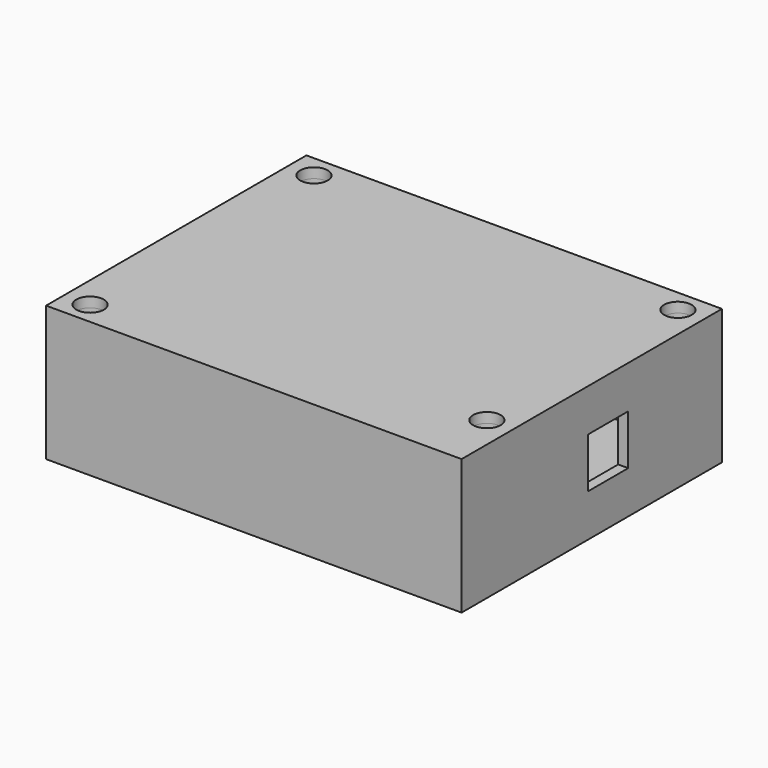
from build123d import *

# Parameters (mm, degrees)
F0_W      = 83
F0_H      = 65
F1_DEPTH  = 2
F2_W      = 83
F2_H      = 65
F2_R      = 2.75
F3_DEPTH  = 23
F4_R      = 2.75
F5_DEPTH  = 2.001
F6_W      = 83
F6_H      = 65
F6_R      = 2.75
F7_DEPTH  = 2
F8_W      = 10
F8_H      = 10
F9_DEPTH  = 2
F10_R     = 3
F11_DEPTH = 2


with BuildPart() as f1:
    # F0 (on Top) → F1 (new body)
    with BuildSketch(Plane.XY):
        Rectangle(F0_W, F0_H)
    extrude(amount=F1_DEPTH)

    # F2 (on face) → F3 (join)
    with BuildSketch(Plane.XY.offset(2)):
        Rectangle(F2_W, F2_H)
        with Locations((-36.35, -27.95)):
            Circle(F2_R, mode=Mode.SUBTRACT)
        with Locations((36.35, -19.75)):
            Circle(F2_R, mode=Mode.SUBTRACT)
        with Locations((-36.35, 27.95)):
            Circle(F2_R, mode=Mode.SUBTRACT)
        with BuildLine():
            Line((39.5, -30.5), (-31.196361, -30.5))
            ThreePointArc((-31.196361, -30.5), (-32.535877, -23.647098), (-39.5, -23.139595))
            Line((-39.5, -23.139595), (-39.5, 23.139595))
            ThreePointArc((-39.5, 23.139595), (-32.535877, 23.647098), (-31.196361, 30.5))
            Line((-31.196361, 30.5), (31.196361, 30.5))
            ThreePointArc((31.196361, 30.5), (32.535877, 23.647098), (39.5, 23.139595))
            Line((39.5, 23.139595), (39.5, -14.939595))
            ThreePointArc((39.5, -14.939595), (30.6, -19.75), (39.5, -24.560405))
            Line((39.5, -24.560405), (39.5, -30.5))
        make_face(mode=Mode.SUBTRACT)
        with Locations((36.35, 27.95)):
            Circle(F2_R, mode=Mode.SUBTRACT)
    extrude(amount=F3_DEPTH)

    # F4 (on face) → F5 (cut, through all)
    with BuildSketch(Plane.XY.offset(2)):
        with Locations((-36.35, 27.95)):
            Circle(F4_R)
        with Locations((-36.35, -27.95)):
            Circle(F4_R)
        with Locations((36.35, 27.95)):
            Circle(F4_R)
        with Locations((36.35, -19.75)):
            Circle(F4_R)
    extrude(amount=-F5_DEPTH, mode=Mode.SUBTRACT)

    # F6 (on face) → F7 (join)
    with BuildSketch(Plane.XY.offset(25)):
        Rectangle(F6_W, F6_H)
        with Locations((-36.35, -27.95)):
            Circle(F6_R, mode=Mode.SUBTRACT)
        with Locations((36.35, -19.75)):
            Circle(F6_R, mode=Mode.SUBTRACT)
        with Locations((-36.35, 27.95)):
            Circle(F6_R, mode=Mode.SUBTRACT)
        with Locations((36.35, 27.95)):
            Circle(F6_R, mode=Mode.SUBTRACT)
    extrude(amount=F7_DEPTH)

    # F8 (on face) → F9 (cut)
    with BuildSketch(Plane.YZ.offset(41.5)):
        with Locations((4.1, 13.5)):
            Rectangle(F8_W, F8_H)
    extrude(amount=-F9_DEPTH, mode=Mode.SUBTRACT)

    # F10 (on face) → F11 (cut)
    with BuildSketch(Plane(origin=(-41.5, 0, 0), x_dir=(0, -1, 0), z_dir=(-1, 0, 0))):
        with Locations((0, 13.5)):
            Circle(F10_R)
    extrude(amount=-F11_DEPTH, mode=Mode.SUBTRACT)


solid = f1.part
